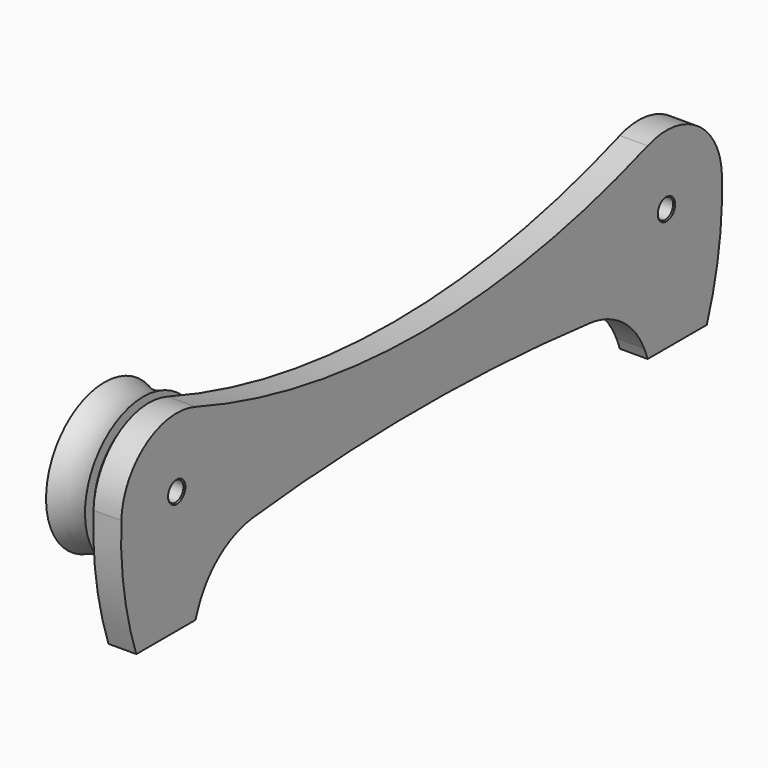
from build123d import *

# Parameters (mm, degrees)
F0_R     = 11
F0_R_2   = 5.5
F0_R_3   = 3.85
F0_R_4   = 1.75
F1_DEPTH = 5
F2_DEPTH = 1
F3_DEPTH = 4.5
F4_SIZE  = 0.2
F8_R     = 15
F9_SIZE  = 0.5


with BuildPart() as f1:
    # F0 (on Right) → F1 (new body)
    with BuildSketch(Plane.YZ):
        with BuildLine():
            Line((50.7842712475, 0), (64.0685424949, 0))
            ThreePointArc((64.0685424949, 0), (66.8362852728, 11.1002668566), (67.4468850178, 22.5240793692))
            ThreePointArc((67.4468850178, 22.5240793692), (61.9483818424, 32.3401932092), (50.7823831309, 33.7222571963))
            ThreePointArc((50.7823831309, 33.7222571963), (0, 24.8645597266), (-50.7823831309, 33.7222571963))
            ThreePointArc((-50.7823831309, 33.7222571963), (-61.9483818424, 32.3401932092), (-67.4468850178, 22.5240793692))
            ThreePointArc((-67.4468850178, 22.5240793692), (-66.8362852728, 11.1002668566), (-64.0685424949, 0))
            Line((-64.0685424949, 0), (-50.7842712475, 0))
            ThreePointArc((-50.7842712475, 0), (-48.267413936, 5.3636056657), (-44.7455462717, 10.1279822902))
            ThreePointArc((-44.7455462717, 10.1279822902), (0, 13), (44.7455462717, 10.1279822902))
            ThreePointArc((44.7455462717, 10.1279822902), (48.267413936, 5.3636056657), (50.7842712475, 0))
        make_face()
        with Locations((-55, 22)):
            Circle(F0_R, mode=Mode.SUBTRACT)
        with Locations((55, 22)):
            Circle(F0_R, mode=Mode.SUBTRACT)
        with Locations((55, 22)):
            Circle(F0_R)
        with Locations((55, 22)):
            Circle(F0_R_2, mode=Mode.SUBTRACT)
        with Locations((55, 22)):
            Circle(F0_R_2)
        with Locations((55, 22)):
            Circle(F0_R_3, mode=Mode.SUBTRACT)
        with Locations((55, 22)):
            Circle(F0_R_3)
        with Locations((55, 22)):
            Circle(F0_R_4, mode=Mode.SUBTRACT)
        with Locations((-55, 22)):
            Circle(F0_R)
        with Locations((-55, 22)):
            Circle(F0_R_2, mode=Mode.SUBTRACT)
        with Locations((-55, 22)):
            Circle(F0_R_2)
        with Locations((-55, 22)):
            Circle(F0_R_3, mode=Mode.SUBTRACT)
        with Locations((-55, 22)):
            Circle(F0_R_3)
        with Locations((-55, 22)):
            Circle(F0_R_4, mode=Mode.SUBTRACT)
    extrude(amount=F1_DEPTH)

    # F0 (on Right) → F2 (join)
    with BuildSketch(Plane.YZ):
        with Locations((-55, 22)):
            Circle(F0_R_2)
        with Locations((-55, 22)):
            Circle(F0_R_3, mode=Mode.SUBTRACT)
        with Locations((55, 22)):
            Circle(F0_R_2)
        with Locations((55, 22)):
            Circle(F0_R_3, mode=Mode.SUBTRACT)
        with Locations((-55, 22)):
            Circle(F0_R_3)
        with Locations((-55, 22)):
            Circle(F0_R_4, mode=Mode.SUBTRACT)
        with Locations((55, 22)):
            Circle(F0_R_3)
        with Locations((55, 22)):
            Circle(F0_R_4, mode=Mode.SUBTRACT)
    extrude(amount=-F2_DEPTH)

    # F0 (on Right) → F3 (join)
    with BuildSketch(Plane.YZ):
        with Locations((55, 22)):
            Circle(F0_R_3)
        with Locations((55, 22)):
            Circle(F0_R_4, mode=Mode.SUBTRACT)
        with Locations((-55, 22)):
            Circle(F0_R_3)
        with Locations((-55, 22)):
            Circle(F0_R_4, mode=Mode.SUBTRACT)
    extrude(amount=-F3_DEPTH)

    # F4
    f4_edges = [f1.edges().sort_by_distance(p)[0] for p in [
        (5, 53.25, 22),
        (5, -56.75, 22),
    ]]
    chamfer(f4_edges, length=F4_SIZE)

    # F8
    f8_edges = [f1.edges().sort_by_distance(p)[0] for p in [
        (2.5, -44.745546, 10.127982),
        (2.5, 44.745546, 10.127982),
    ]]
    fillet(f8_edges, radius=F8_R)

    # F9
    f9_edges = [f1.edges().sort_by_distance(p)[0] for p in [
        (-4.5, -58.85, 22),
        (-4.5, 51.15, 22),
        (-4.5, 53.25, 22),
        (-1, 49.5, 22),
        (-1, -60.5, 22),
    ]]
    chamfer(f9_edges, length=F9_SIZE)


with BuildPart() as f7:
    # F6 (on plane+point) → F7 (revolve)
    with BuildSketch(Plane.XZ.offset(55)):
        with BuildLine():
            Line((-8, 35.1), (-8, 33.1))
            Line((-8, 33.1), (-1, 33.1))
            Line((-1, 33.1), (-1, 35.1))
            ThreePointArc((-1, 35.1), (-4.5, 34.3), (-8, 35.1))
        make_face()
    revolve(axis=Axis((-4.5, -55, 22), (-1, 0, 0)))


solid = Compound([f1.part, f7.part])
